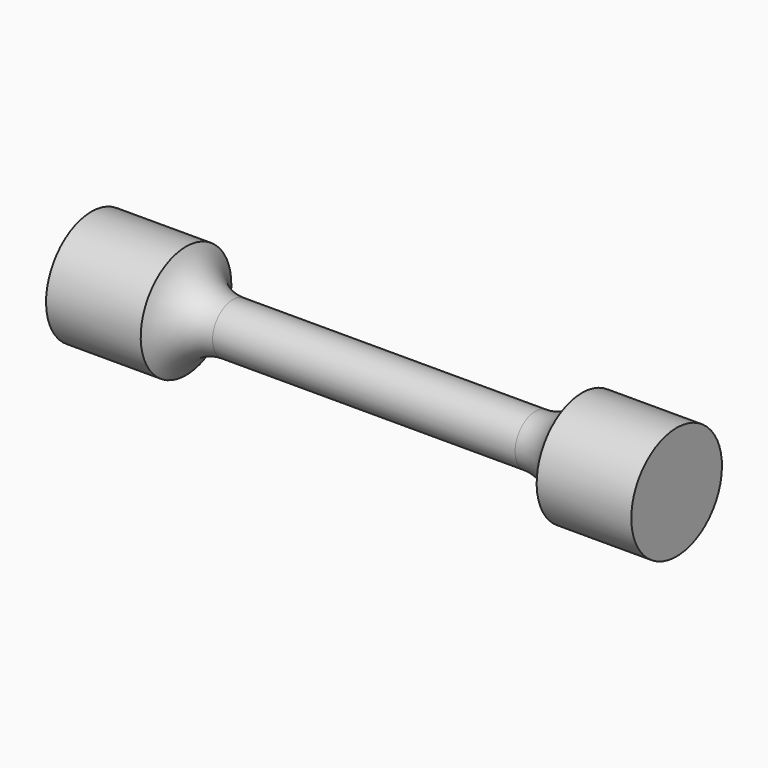
from build123d import *


with BuildPart() as f1:
    # F0 (on Front) → F1 (revolve)
    with BuildSketch(Plane.XZ):
        with BuildLine():
            Line((12, 2), (0, 2))
            Line((0, 2), (-12, 2))
            ThreePointArc((-12, 2), (-14.233505, 2.681649), (-15.705777, 4.494273))
            Line((-15.705777, 4.494273), (-23.214952, 4.494273))
            Line((-23.214952, 4.494273), (-23.214952, 0))
            Line((-23.214952, 0), (0, 0))
            Line((0, 0), (23.214952, 0))
            Line((23.214952, 0), (23.214952, 4.494273))
            Line((23.214952, 4.494273), (15.705777, 4.494273))
            ThreePointArc((15.705777, 4.494273), (14.233505, 2.681649), (12, 2))
        make_face()
    revolve(axis=Axis((-11.607476, 0, 0), (1, 0, 0)))


solid = f1.part
